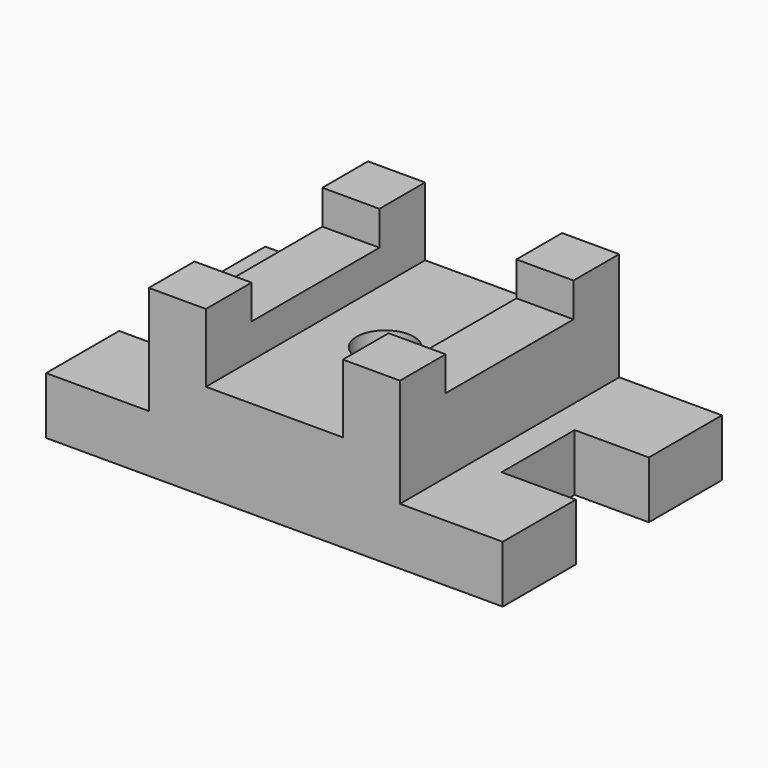
from build123d import *

# Parameters (mm, degrees)
F1_DEPTH  = 31.75
F2_W      = 31.75
F2_H      = 31.75
F3_DEPTH  = 60.325
F4_W      = 31.75
F4_H      = 31.75
F5_DEPTH  = 60.325
F6_W      = 31.75
F6_H      = 31.75
F7_DEPTH  = 60.325
F8_W      = 31.75
F8_H      = 31.75
F9_DEPTH  = 60.325
F10_W     = 31.75
F10_H     = 88.9
F11_DEPTH = 41.275
F12_W     = 31.75
F12_H     = 88.9
F13_DEPTH = 41.275
F14_W     = 76.2
F14_H     = 152.4
F15_DEPTH = 22.225
F16_R     = 15.875
F17_DEPTH = 54.356


with BuildPart() as f1:
    # F0 (on Top) → F1 (new body)
    with BuildSketch(Plane.XY):
        Polygon((127.5229413509, 74.6808891282), (-126.4770586491, 74.6808891282), (-126.4770586491, 23.8808891282), (-85.2020586491, 23.8808891282), (-85.2020586491, -26.9191108718), (-126.4770586491, -26.9191108718), (-126.4770586491, -77.7191108718), (127.5229413509, -77.7191108718), (127.5229413509, -26.9191108718), (86.2479413509, -26.9191108718), (86.2479413509, 23.8808891282), (127.5229413509, 23.8808891282), align=None)
    extrude(amount=F1_DEPTH)

    # F2 (on face) → F3 (join)
    with BuildSketch(Plane.XY.offset(31.75)):
        with Locations((54.4979413509, 58.8058891282)):
            Rectangle(F2_W, F2_H)
    extrude(amount=F3_DEPTH)

    # F4 (on face) → F5 (join)
    with BuildSketch(Plane.XY.offset(31.75)):
        with Locations((54.4979413509, -61.8441108718)):
            Rectangle(F4_W, F4_H)
    extrude(amount=F5_DEPTH)

    # F6 (on face) → F7 (join)
    with BuildSketch(Plane.XY.offset(31.75)):
        with Locations((-53.4520586491, 58.8058891282)):
            Rectangle(F6_W, F6_H)
    extrude(amount=F7_DEPTH)

    # F8 (on face) → F9 (join)
    with BuildSketch(Plane.XY.offset(31.75)):
        with Locations((-53.4520586491, -61.8441108718)):
            Rectangle(F8_W, F8_H)
    extrude(amount=F9_DEPTH)

    # F10 (on face) → F11 (join)
    with BuildSketch(Plane.XY.offset(31.75)):
        with Locations((-53.4520586491, -1.5191108718)):
            Rectangle(F10_W, F10_H)
    extrude(amount=F11_DEPTH)

    # F12 (on face) → F13 (join)
    with BuildSketch(Plane.XY.offset(31.75)):
        with Locations((54.4979413509, -1.5191108718)):
            Rectangle(F12_W, F12_H)
    extrude(amount=F13_DEPTH)

    # F14 (on face) → F15 (join)
    with BuildSketch(Plane.XY.offset(31.75)):
        with Locations((0.5229413509, -1.5191108718)):
            Rectangle(F14_W, F14_H)
    extrude(amount=F15_DEPTH)

    # F16 (on face) → F17 (cut)
    with BuildSketch(Plane.XY.offset(53.975)):
        Circle(F16_R)
    extrude(amount=-F17_DEPTH, mode=Mode.SUBTRACT)


with BuildPart() as f1_1:
    # F18: moved
    add(f1.part)


solid = f1_1.part
